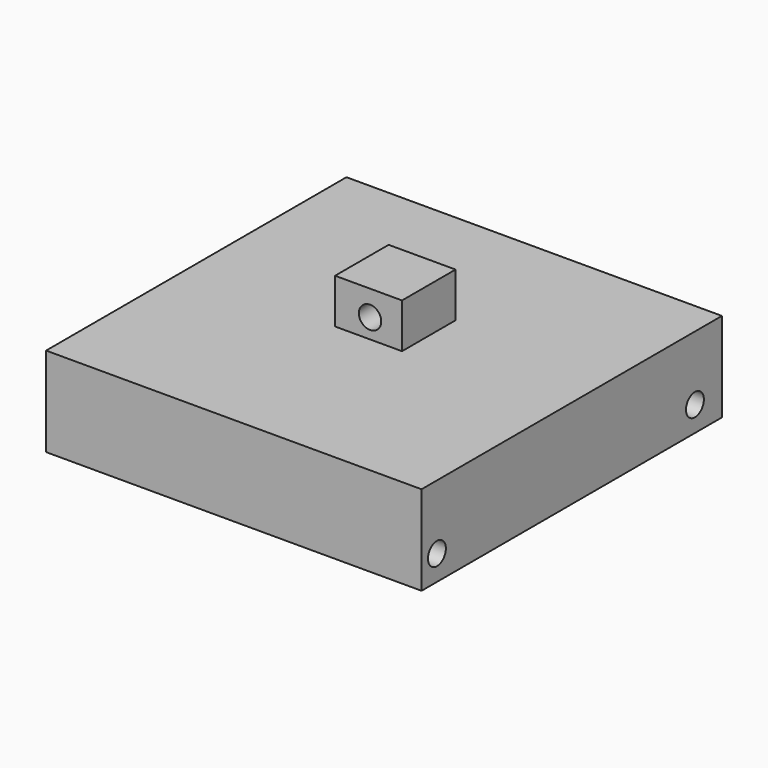
from build123d import *

# Parameters (mm, degrees)
F0_W     = 106.6800057888
F0_H     = 106.6800057888
F1_DEPTH = 25.4
F3_D     = 6.35
F4_W     = 19.0191436559
F4_H     = 19.0191436559
F5_DEPTH = 12.7
F7_D     = 6.35
F7_DEPTH = 7.62
F7_TIP   = 1.9077324654


with BuildPart() as f1:
    # F0 (on Top) → F1 (new body)
    with BuildSketch(Plane.XY):
        with Locations((10.4977674782, 4.2558498681)):
            Rectangle(F0_W, F0_H)
    extrude(amount=F1_DEPTH)

    # F3 (through all)
    with Locations(Plane.YZ.offset(63.8377703726)):
        with Locations((-43.6188168824, 7.1031823754), (48.0126738548, 7.1031823754)):
            Hole(F3_D / 2)

    # F4 (on face) → F5 (join)
    with BuildSketch(Plane.XY.offset(25.4)):
        with Locations((9.5095718279, 9.5095718279)):
            Rectangle(F4_W, F4_H)
    extrude(amount=F5_DEPTH)

    # F7
    with Locations(Plane.XZ):
        with Locations((9.9399928004, 30.9258513153)):
            Hole(F7_D / 2, depth=F7_DEPTH)
            with Locations((0, 0, -(F7_DEPTH + F7_TIP / 2))):  # 118° drill point
                Cone(0, F7_D / 2, F7_TIP, mode=Mode.SUBTRACT)


solid = f1.part
